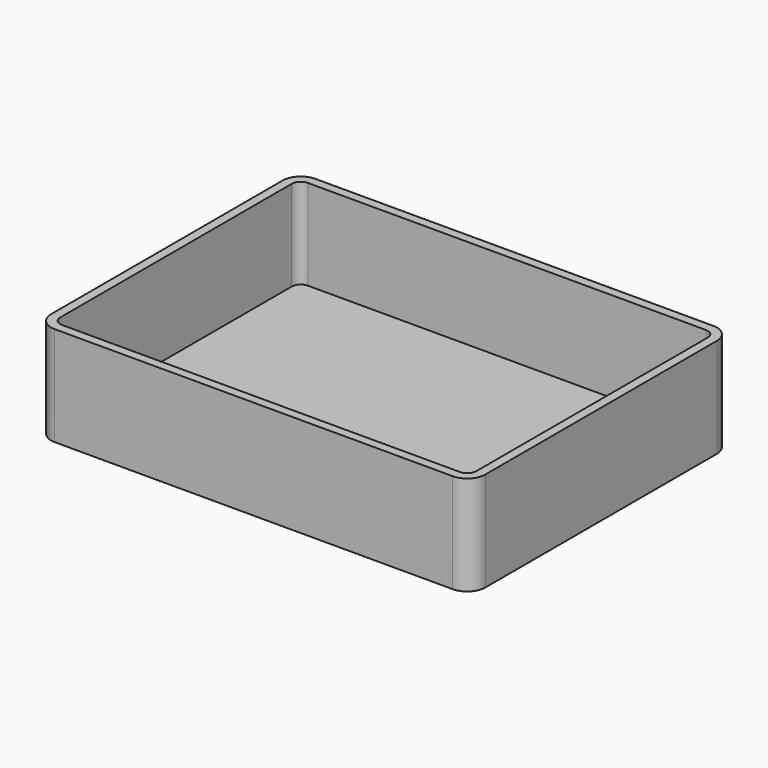
from build123d import *

# Parameters (mm, degrees)
F1_DEPTH = 63.5
F3_DEPTH = 6.35


with BuildPart() as f1:
    # F0 (on Top) → F1 (new body)
    with BuildSketch(Plane.XY):
        with BuildLine():
            Line((139.7, 114.3), (-139.7, 114.3))
            ThreePointArc((-139.7, 114.3), (-148.680256, 110.580256), (-152.4, 101.6))
            Line((-152.4, 101.6), (-152.4, -101.6))
            ThreePointArc((-152.4, -101.6), (-148.680256, -110.580256), (-139.7, -114.3))
            Line((-139.7, -114.3), (139.7, -114.3))
            ThreePointArc((139.7, -114.3), (148.680256, -110.580256), (152.4, -101.6))
            Line((152.4, -101.6), (152.4, 101.6))
            ThreePointArc((152.4, 101.6), (148.680256, 110.580256), (139.7, 114.3))
        make_face()
        with BuildLine():
            ThreePointArc((-146.05, 101.6), (-144.190128, 106.090128), (-139.7, 107.95))
            Line((-139.7, 107.95), (139.7, 107.95))
            ThreePointArc((139.7, 107.95), (144.190128, 106.090128), (146.05, 101.6))
            Line((146.05, 101.6), (146.05, -101.6))
            ThreePointArc((146.05, -101.6), (144.190128, -106.090128), (139.7, -107.95))
            Line((139.7, -107.95), (-139.7, -107.95))
            ThreePointArc((-139.7, -107.95), (-144.190128, -106.090128), (-146.05, -101.6))
            Line((-146.05, -101.6), (-146.05, 101.6))
        make_face(mode=Mode.SUBTRACT)
    extrude(amount=F1_DEPTH)

    # F2 (on Top) → F3 (join)
    with BuildSketch(Plane.XY):
        with BuildLine():
            ThreePointArc((-152.4, -101.6), (-148.680256, -110.580256), (-139.7, -114.3))
            Line((-139.7, -114.3), (139.7, -114.3))
            ThreePointArc((139.7, -114.3), (148.680256, -110.580256), (152.4, -101.6))
            Line((152.4, -101.6), (152.4, 101.6))
            ThreePointArc((152.4, 101.6), (148.680256, 110.580256), (139.7, 114.3))
            Line((139.7, 114.3), (-139.7, 114.3))
            ThreePointArc((-139.7, 114.3), (-148.680256, 110.580256), (-152.4, 101.6))
            Line((-152.4, 101.6), (-152.4, -101.6))
        make_face()
    extrude(amount=-F3_DEPTH)


solid = f1.part
